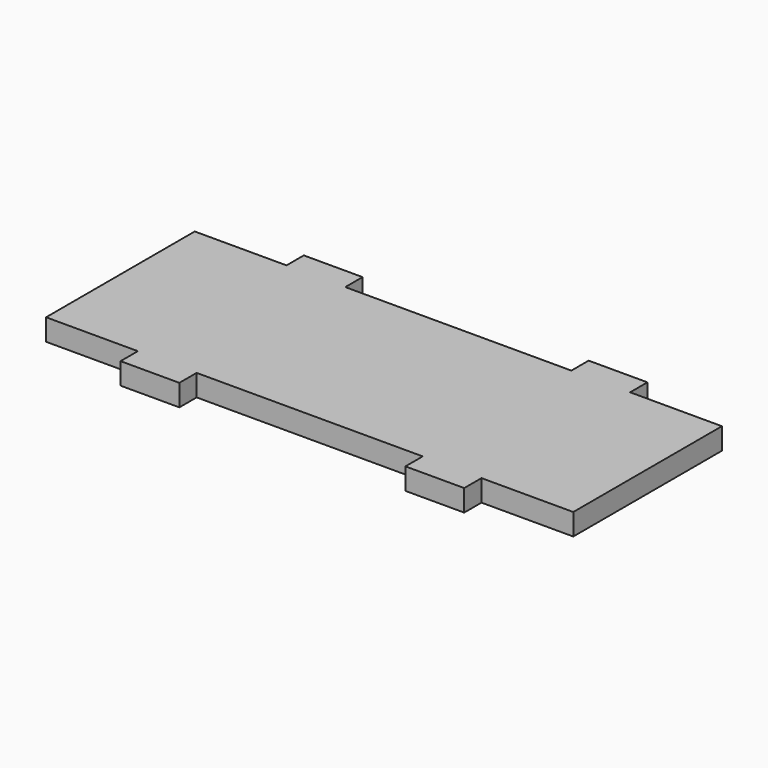
from build123d import *

# Parameters (mm, degrees)
F0_W     = 8.636
F0_H     = 3.175
F1_DEPTH = 3.175


with BuildPart() as f1:
    # F0 (on Top) → F1 (new body)
    with BuildSketch(Plane.XY):
        with Locations((-20.9296, 15.24)):
            Rectangle(F0_W, F0_H)
        with Locations((20.9296, 15.24)):
            Rectangle(F0_W, F0_H)
        Polygon((-25.2476, 13.6525), (-38.735, 13.6525), (-38.735, -13.6525), (-25.2476, -13.6525), (-16.6116, -13.6525), (16.6116, -13.6525), (25.2476, -13.6525), (38.735, -13.6525), (38.735, 13.6525), (25.2476, 13.6525), (16.6116, 13.6525), (-16.6116, 13.6525), align=None)
        with Locations((-20.9296, -15.24)):
            Rectangle(F0_W, F0_H)
        with Locations((20.9296, -15.24)):
            Rectangle(F0_W, F0_H)
    extrude(amount=F1_DEPTH)


solid = f1.part
